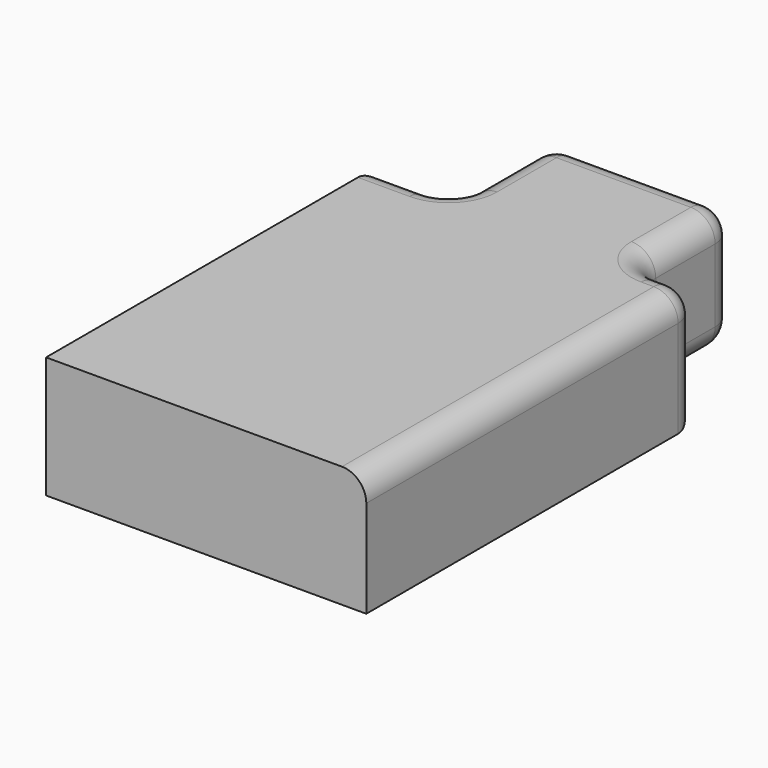
from build123d import *

# Parameters (mm, degrees)
F1_DEPTH = 25.4
F2_R     = 5.08


with BuildPart() as f1:
    # F0 (on Top) → F1 (new body)
    with BuildSketch(Plane.XY):
        Polygon((-17.130956, 26.992202), (-32.995567, 26.992202), (-32.995567, -59.506595), (33.896953, -59.506595), (33.896953, 26.992202), (21.096393, 26.992202), (21.096393, 52.655421), (-17.130956, 52.655421), align=None)
    extrude(amount=F1_DEPTH)

    # F2
    f2_edges = [f1.edges().sort_by_distance(p)[0] for p in [
        (21.096393, 39.823812, 25.4),
        (21.096393, 39.823812, 0),
        (-25.063261, 26.992202, 0),
        (-17.130956, 39.823812, 0),
        (27.496673, 26.992202, 0),
        (27.496673, 26.992202, 25.4),
        (-17.130956, 39.823812, 25.4),
        (-25.063261, 26.992202, 25.4),
        (-17.130956, 26.992202, 12.7),
        (-32.995567, 26.992202, 12.7),
        (-17.130956, 52.655421, 12.7),
        (1.982719, 52.655421, 25.4),
        (1.982719, 52.655421, 0),
        (21.096393, 26.992202, 12.7),
        (21.096393, 52.655421, 12.7),
        (33.896953, -16.257197, 25.4),
        (33.896953, 26.992202, 12.7),
    ]]
    fillet(f2_edges, radius=F2_R)


solid = f1.part
